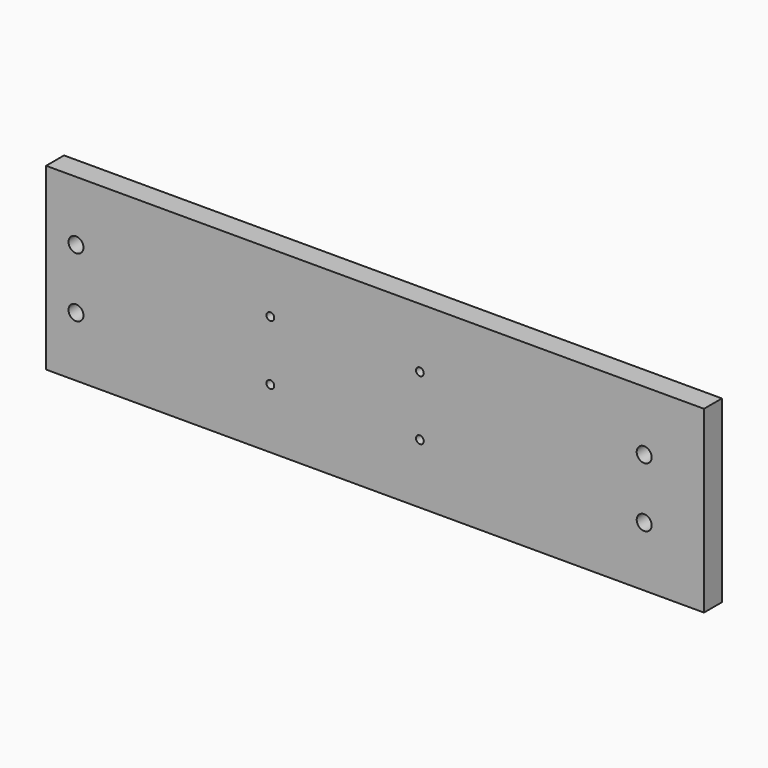
from build123d import *

# Parameters (mm, degrees)
F0_W     = 279.4
F0_H     = 76.2
F0_R     = 3.175
F0_R_2   = 1.651
F1_DEPTH = 9.525


with BuildPart() as f1:
    # F0 (on Front) → F1 (new body)
    with BuildSketch(Plane.XZ):
        with Locations((1.827639, 0)):
            Rectangle(F0_W, F0_H)
        with Locations((-125.172361, -12.7)):
            Circle(F0_R, mode=Mode.SUBTRACT)
        with Locations((-42.622361, -12.7)):
            Circle(F0_R_2, mode=Mode.SUBTRACT)
        with Locations((20.877639, -12.7)):
            Circle(F0_R_2, mode=Mode.SUBTRACT)
        with Locations((116.127639, -12.7)):
            Circle(F0_R, mode=Mode.SUBTRACT)
        with Locations((-125.172361, 12.7)):
            Circle(F0_R, mode=Mode.SUBTRACT)
        with Locations((-42.622361, 12.7)):
            Circle(F0_R_2, mode=Mode.SUBTRACT)
        with Locations((20.877639, 12.7)):
            Circle(F0_R_2, mode=Mode.SUBTRACT)
        with Locations((116.127639, 12.7)):
            Circle(F0_R, mode=Mode.SUBTRACT)
    extrude(amount=F1_DEPTH)


solid = f1.part
